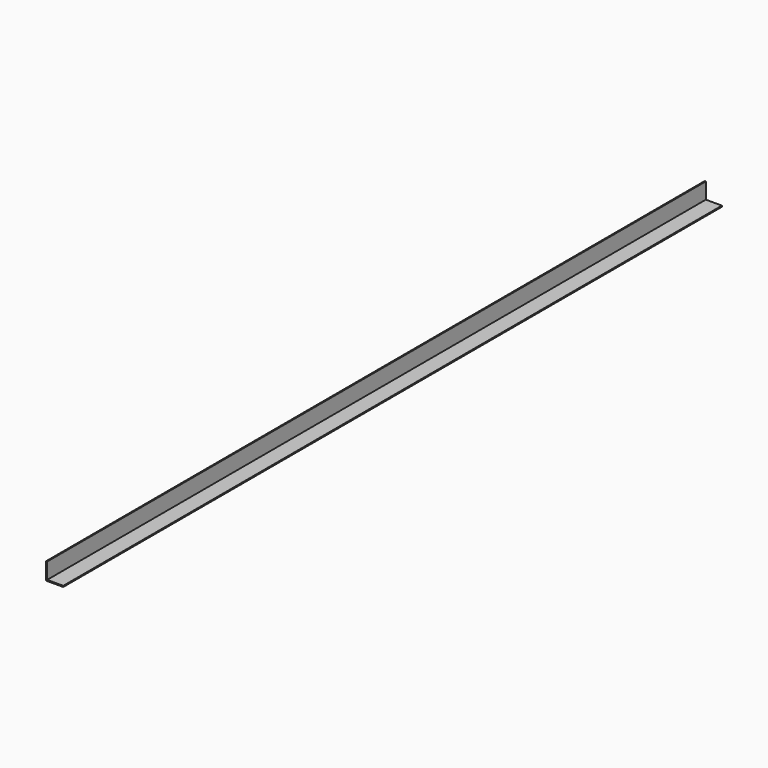
from build123d import *

# Parameters (mm, degrees)
F0_W     = 3.175
F0_H     = 3.175
F0_W_2   = 47.625
F0_H_2   = 47.625
F1_DEPTH = 2438.4


with BuildPart() as f1:
    # F0 (on Front) → F1 (new body)
    with BuildSketch(Plane.XZ):
        with Locations((1.5875, 1.5875)):
            Rectangle(F0_W, F0_H)
        with Locations((26.9875, 1.5875)):
            Rectangle(F0_W_2, F0_H)
        with Locations((1.5875, 26.9875)):
            Rectangle(F0_W, F0_H_2)
    extrude(amount=-F1_DEPTH)


solid = f1.part
